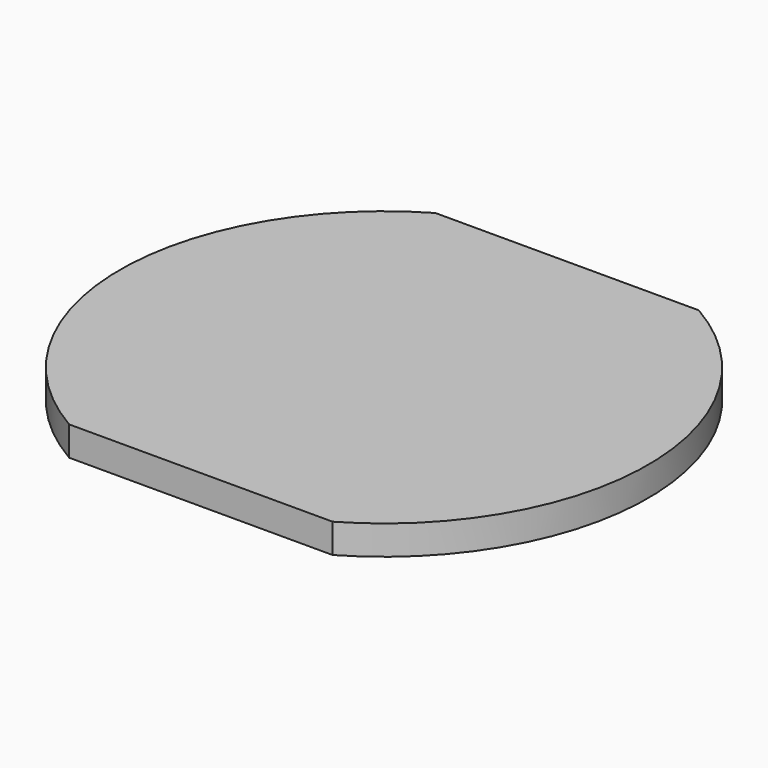
from build123d import *

# Parameters (mm, degrees)
PAD_1_DEPTH = 5


with BuildPart() as part:
    # Sketch_1 → Pad_1 (new body)
    with BuildSketch(Plane.XY):
        with BuildLine():
            ThreePointArc((22.431948, -38.989646), (44.991025, 0.010354), (22.431948, 39.010354))
            Line((22.431948, 39.010354), (-22.449944, 39.010354))
            ThreePointArc((-22.449944, 39.010354), (-44.995512, 0.00515), (-22.431948, -38.989646))
            Line((-22.431948, -38.989646), (22.431948, -38.989646))
        make_face()
    extrude(amount=PAD_1_DEPTH)


solid = part.part
